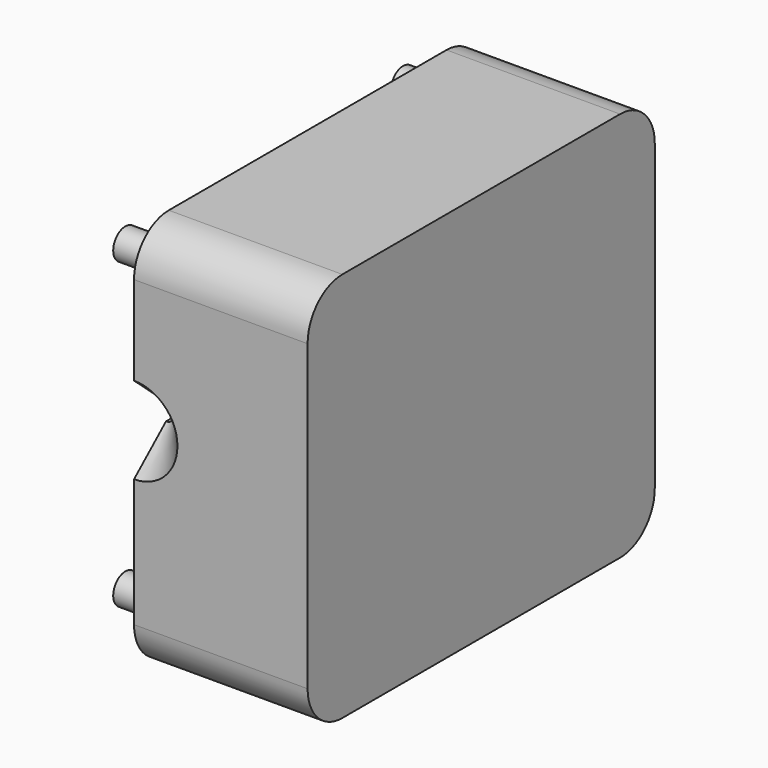
from build123d import *

# Parameters (mm, degrees)
F1_DEPTH        = 10
F5_R            = 2
F6_W            = 50
F6_H            = 45
F7_DEPTH        = 20
F10_D           = 2
F10_DEPTH       = 20
F10_CSINK_D     = 10
F10_CSINK_ANGLE = 82
F11_R           = 5
F12_R           = 1.75
F13_DEPTH       = 5


with BuildPart() as f1:
    # F0 (on Right) → F1 (new body, symmetric)
    with BuildSketch(Plane.YZ):
        with BuildLine():
            Line((-15, 0), (0, 0))
            Line((0, 0), (0, 24.5))
            Line((0, 24.5), (-5, 24.5))
            ThreePointArc((-5, 24.5), (-11.367509, 12.808167), (-15, 0))
        make_face()
    extrude(amount=F1_DEPTH, both=True)

    # F3 (on Right) → F4 (revolve)
    with BuildSketch(Plane.YZ):
        Polygon((0, 12.25), (15, 12.25), (15, 13.75), (10, 13.75), (1.75, 16.75), (1.75, 15.5), (0, 15.5), align=None)
    revolve(axis=Axis((0, 7.5, 12.25), (0, -1, 0)))

    # F5
    f5_edges = [f1.edges().sort_by_distance(p)[0] for p in [
        (0, -5, 24.5),
        (0, -15, 0),
        (0, 0, 0),
    ]]
    fillet(f5_edges, radius=F5_R)


with BuildPart() as f7:
    # F6 (on Right) → F7 (new body)
    with BuildSketch(Plane.YZ):
        with Locations((0, 10)):
            Rectangle(F6_W, F6_H)
    extrude(amount=F7_DEPTH)

    # F8: cut F1
    add(f1.part, mode=Mode.SUBTRACT)

    # F10
    with Locations(Plane.XZ.offset(25)):
        with Locations((0, 12.25)):
            CounterSinkHole(F10_D / 2, F10_CSINK_D / 2, depth=F10_DEPTH, counter_sink_angle=F10_CSINK_ANGLE)

    # F11
    f11_edges = [f7.edges().sort_by_distance(p)[0] for p in [
        (10, -25, 32.5),
        (10, 25, 32.5),
        (10, -25, -12.5),
        (10, 25, -12.5),
    ]]
    fillet(f11_edges, radius=F11_R)

    # F12 (on face) → F13 (join)
    with BuildSketch(Plane.YZ):
        with Locations((20, 27.5)):
            Circle(F12_R)
        with Locations((-20, 27.5)):
            Circle(F12_R)
        with Locations((-20, -7.5)):
            Circle(F12_R)
        with Locations((20, -7.5)):
            Circle(F12_R)
    extrude(amount=-F13_DEPTH)


solid = f7.part
